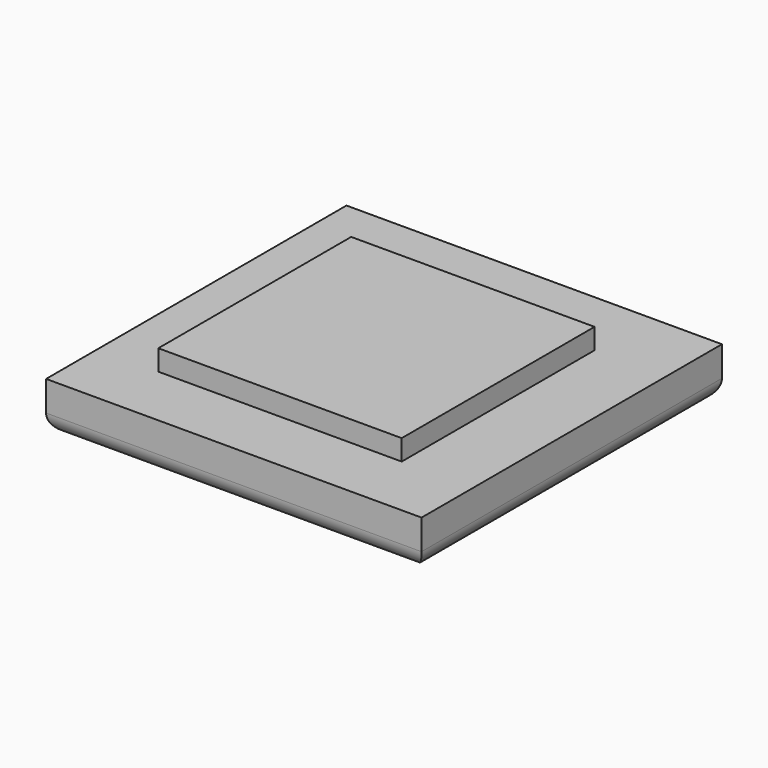
from build123d import *

# Parameters (mm, degrees)
F0_W     = 101.6
F0_H     = 101.6
F1_DEPTH = 13.208
F2_R     = 14.002831
F3_DEPTH = 8.636
F5_W     = 65.857943
F5_H     = 65.231863
F6_DEPTH = 5.588
F7_R     = 5.08


with BuildPart() as f1:
    # F0 (on Top) → F1 (new body)
    with BuildSketch(Plane.XY):
        Rectangle(F0_W, F0_H)
    extrude(amount=F1_DEPTH)

    # F2 (on face) → F3 (join)
    with BuildSketch(Plane(origin=(0, 0, 0), x_dir=(1, 0, 0), z_dir=(0, 0, -1))):
        Circle(F2_R)
    extrude(amount=F3_DEPTH)

    # F5 (on face) → F6 (join)
    with BuildSketch(Plane.XY.offset(13.208)):
        with Locations((-1.412789, -0.793302)):
            Rectangle(F5_W, F5_H)
    extrude(amount=F6_DEPTH)

    # F7
    f7_edges = [f1.edges().sort_by_distance(p)[0] for p in [
        (-50.8, 0, 0),
        (0, 50.8, 0),
        (50.8, 0, 0),
        (0, -50.8, 0),
    ]]
    fillet(f7_edges, radius=F7_R)


solid = f1.part
